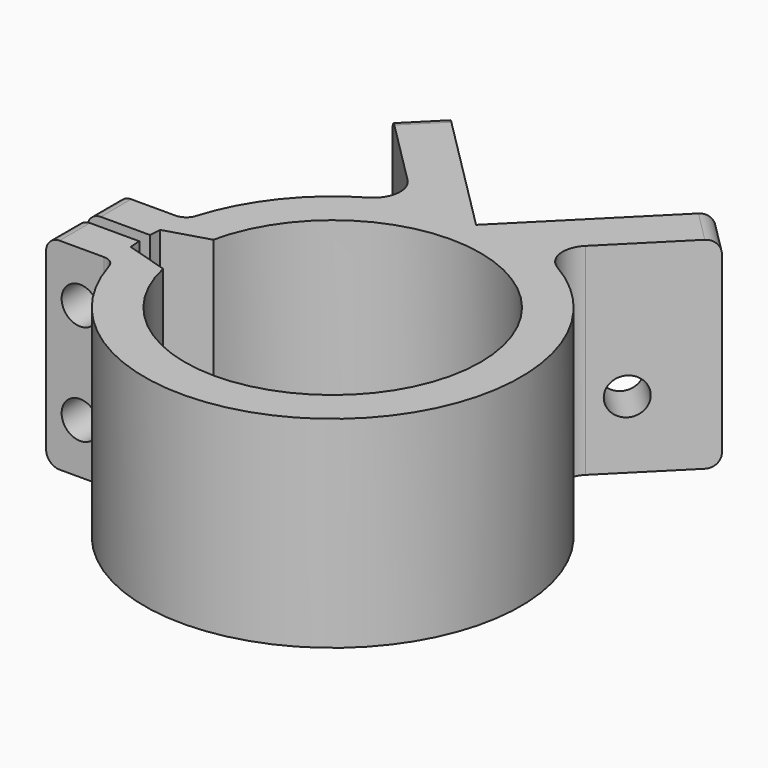
from build123d import *

# Parameters (mm, degrees)
F1_DEPTH  = 45
F2_R      = 4.125
F3_DEPTH  = 10
F4_R      = 4.125
F5_DEPTH  = 10
F6_R      = 4.125
F7_DEPTH  = 20
F8_R      = 3
F10_DEPTH = 3
F11_R     = 6


with BuildPart() as f1:
    # F0 (on Top) → F1 (new body)
    with BuildSketch(Plane.XY):
        with BuildLine():
            Line((29.698485, 29.698485), (0, 0))
            Line((0, 0), (-29.698485, 29.698485))
            Line((-29.698485, 29.698485), (-36.769553, 22.627417))
            Line((-36.769553, 22.627417), (-13.80761, -0.334525))
            ThreePointArc((-13.80761, -0.334525), (-31.069176, -11.738608), (-40.792156, -30))
            ThreePointArc((-40.792156, -30), (-41.398908, -32.919715), (-41.796954, -35.875124))
            Line((-41.796954, -35.875124), (-32.248766, -32.998781))
            ThreePointArc((-32.248766, -32.998781), (33, -40), (-32.248766, -47.001219))
            Line((-32.248766, -47.001219), (-41.796954, -44.124876))
            ThreePointArc((-41.796954, -44.124876), (-41.398908, -47.080285), (-40.792156, -50))
            ThreePointArc((-40.792156, -50), (28.261392, -71.069176), (13.80761, -0.334525))
            Line((13.80761, -0.334525), (36.769553, 22.627417))
            Line((36.769553, 22.627417), (29.698485, 29.698485))
        make_face()
        with BuildLine():
            ThreePointArc((-41.796954, -35.875124), (-41.398908, -32.919715), (-40.792156, -30))
            Line((-40.792156, -30), (-55.973206, -30))
            Line((-55.973206, -30), (-55.973206, -38.5))
            Line((-55.973206, -38.5), (-41.973206, -38.5))
            ThreePointArc((-41.973206, -38.5), (-41.905637, -37.186182), (-41.796954, -35.875124))
        make_face()
        with BuildLine():
            Line((-55.973206, -50), (-40.792156, -50))
            ThreePointArc((-40.792156, -50), (-41.398908, -47.080285), (-41.796954, -44.124876))
            ThreePointArc((-41.796954, -44.124876), (-41.905637, -42.813818), (-41.973206, -41.5))
            Line((-41.973206, -41.5), (-55.973206, -41.5))
            Line((-55.973206, -41.5), (-55.973206, -50))
        make_face()
    extrude(amount=F1_DEPTH)

    # F2 (on face) → F3 (cut, through all)
    with BuildSketch(Plane(origin=(0, 0, 0), x_dir=(-0.707107, -0.707107, 0), z_dir=(-0.707107, 0.707107, 0))):
        with Locations((-25.4, 15)):
            Circle(F2_R)
    extrude(amount=-F3_DEPTH, mode=Mode.SUBTRACT)

    # F4 (on face) → F5 (cut, through all)
    with BuildSketch(Plane(origin=(0, 0, 0), x_dir=(-0.707107, 0.707107, 0), z_dir=(0.707107, 0.707107, 0))):
        with Locations((25.4, 15)):
            Circle(F4_R)
    extrude(amount=-F5_DEPTH, mode=Mode.SUBTRACT)

    # F6 (on face) → F7 (cut, through all)
    with BuildSketch(Plane.XZ.offset(50)):
        with Locations((-48.382681, 33.75)):
            Circle(F6_R)
        with Locations((-48.382681, 11.25)):
            Circle(F6_R)
    extrude(amount=-F7_DEPTH, mode=Mode.SUBTRACT)

    # F8
    f8_edges = [f1.edges().sort_by_distance(p)[0] for p in [
        (-55.973206, -34.25, 45),
        (-55.973206, -45.75, 45),
        (-55.973206, -45.75, 0),
        (-55.973206, -34.25, 0),
        (-33.234019, 26.162951, 45),
        (33.234019, 26.162951, 45),
        (33.234019, 26.162951, 0),
        (-33.234019, 26.162951, 0),
        (-40.792156, -30, 22.5),
        (-40.792156, -50, 22.5),
    ]]
    fillet(f8_edges, radius=F8_R)

    # F9 (on face) → F10 (cut)
    with BuildSketch(Plane(origin=(0, -30, 0), x_dir=(-1, 0, 0), z_dir=(0, 1, 0))):
        Polygon((55.307681, 37.748151), (48.382681, 41.746301), (41.457681, 37.748151), (41.457681, 29.751849), (48.382681, 25.753699), (55.307681, 29.751849), align=None)
        Polygon((55.307681, 7.251849), (55.307681, 15.248151), (48.382681, 19.246301), (41.457681, 15.248151), (41.457681, 7.251849), (48.382681, 3.253699), align=None)
    extrude(amount=-F10_DEPTH, mode=Mode.SUBTRACT)

    # F11
    f11_edges = [f1.edges().sort_by_distance(p)[0] for p in [
        (-13.80761, -0.334525, 22.5),
        (13.80761, -0.334525, 22.5),
    ]]
    fillet(f11_edges, radius=F11_R)


solid = f1.part
